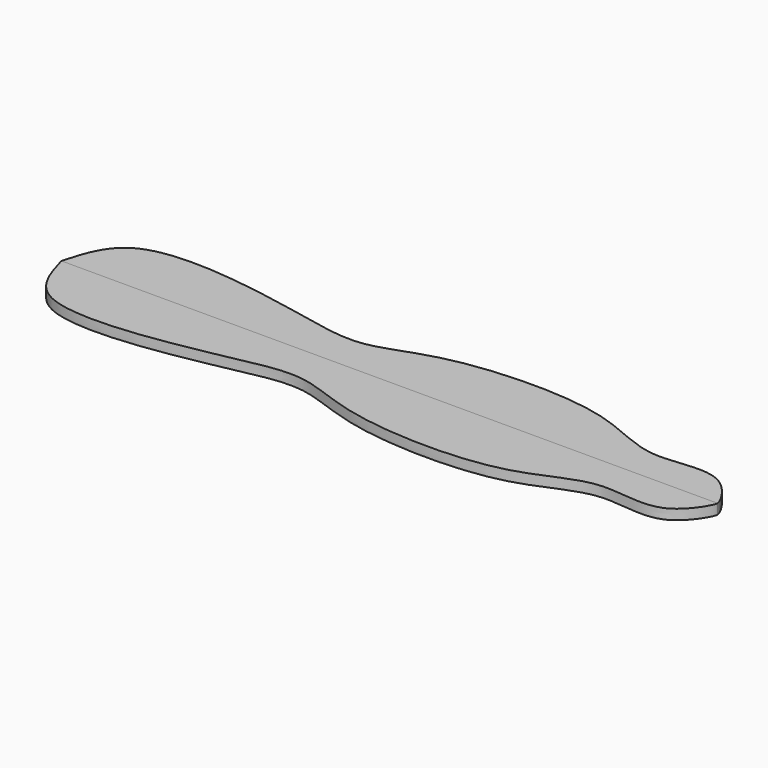
from build123d import *

# Parameters (mm, degrees)
F1_DEPTH = 2.54
F3_ANGLE = 180


with BuildPart() as f1:
    # F0 (on Top) → F1 (new body)
    with BuildSketch(Plane.XY):
        with BuildLine():
            add(Edge.make_bspline(
                [(-68.7753856182, 0), (-67.2815131465, 5.2614996116), (-63.6944055368, 17.8954865492), (-30.1184165099, 14.4592603541), (-12.2742564489, 10.1458156086), (0.760853565, 8.395976301), (16.730894182, 16.8891278707), (55.630415906, 17.8596654578), (72.2184559689, 5.5281661183), (90.413988205, 12.2138391639), (96.5857771369, 0.5928445142), (96.3246151805, 0)],
                knots=[0, 0, 0, 0, 0.0981493246, 0.2356775401, 0.3469283121, 0.4320939854, 0.537679876, 0.69161471, 0.8035998816, 0.905813296, 0.9843300203, 0.9843300203, 0.9843300203, 0.9843300203], degree=3))
            Line((-68.7753856182, 0), (95.9338545799, 0))
            Line((95.9338545799, 0), (96.3246151805, 0))
        make_face()
    extrude(amount=F1_DEPTH)


with BuildPart() as f2_1:
    # F2: copy of F1
    add(f1.part.moved(Location((0, 36.068, 0))))


with BuildPart() as f2_1_1:
    # F3: moved
    add(f2_1.part.rotate(Axis((13.7746147811, 36.068, 2.54), (1, 0, 0)), F3_ANGLE))


with BuildPart() as f2_1_2:
    # F4: moved
    add(f2_1_1.part.moved(Location((0, -36.068, 0))))


with BuildPart() as f2_1_3:
    # F5: moved
    add(f2_1_2.part.moved(Location((0, 0, -2.54))))


solid = Compound([f1.part, f2_1_3.part])
